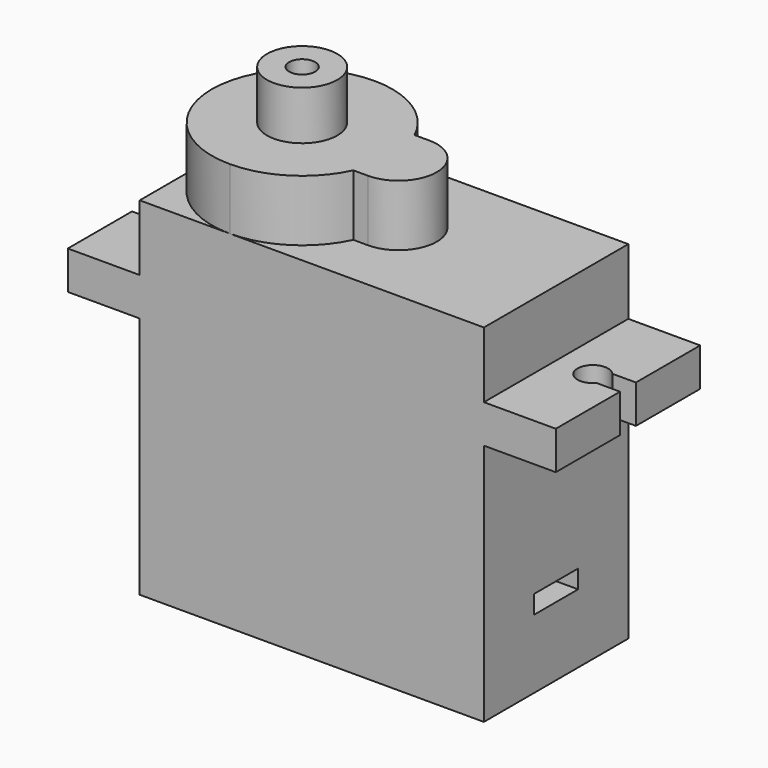
from build123d import *

# Parameters (mm, degrees)
F0_W      = 22.5
F0_H      = 11.8
F1_DEPTH  = 22.7
F2_W      = 4.7
F2_H      = 2.5
F3_DEPTH  = 11.8
F5_DEPTH  = 2.5
F7_DEPTH  = 2.5
F9_DEPTH  = 4
F10_R     = 2.3
F10_R_2   = 0.85
F11_DEPTH = 3.2
F13_DEPTH = 2


with BuildPart() as f1:
    # F0 (on Top) → F1 (new body)
    with BuildSketch(Plane.XY):
        with Locations((-42.3355284333, 9.1565789297)):
            Rectangle(F0_W, F0_H)
    extrude(amount=F1_DEPTH)

    # F2 (on face) → F3 (join)
    with BuildSketch(Plane.XZ.offset(-3.2565789297)):
        with Locations((-55.9355284333, 17.15)):
            Rectangle(F2_W, F2_H)
        with Locations((-28.7355284333, 17.15)):
            Rectangle(F2_W, F2_H)
    extrude(amount=-F3_DEPTH)

    # F4 (on face) → F5 (cut)
    with BuildSketch(Plane.XY.offset(18.4)):
        with BuildLine():
            Line((-58.2855284333, 8.5065789297), (-56.745462641, 8.5065789297))
            ThreePointArc((-56.745462641, 8.5065789297), (-54.9855284333, 9.1565789297), (-56.745462641, 9.8065789297))
            Line((-56.745462641, 9.8065789297), (-58.2855284333, 9.8065789297))
            Line((-58.2855284333, 9.8065789297), (-58.2855284333, 9.1565789297))
            Line((-58.2855284333, 9.1565789297), (-58.2855284333, 8.5065789297))
        make_face()
    extrude(amount=-F5_DEPTH, mode=Mode.SUBTRACT)

    # F6 (on face) → F7 (cut)
    with BuildSketch(Plane.XY.offset(18.4)):
        with BuildLine():
            Line((-26.3855284333, 9.8065789297), (-27.9255942256, 9.8065789297))
            ThreePointArc((-27.9255942256, 9.8065789297), (-29.6855284333, 9.1565789297), (-27.9255942256, 8.5065789297))
            Line((-27.9255942256, 8.5065789297), (-26.3855284333, 8.5065789297))
            Line((-26.3855284333, 8.5065789297), (-26.3855284333, 9.1565789297))
            Line((-26.3855284333, 9.1565789297), (-26.3855284333, 9.8065789297))
        make_face()
    extrude(amount=-F7_DEPTH, mode=Mode.SUBTRACT)

    # F8 (on face) → F9 (join)
    with BuildSketch(Plane.XY.offset(22.7)):
        with BuildLine():
            Line((-41.3855284333, 11.6565789297), (-42.341372747, 11.6565789297))
            ThreePointArc((-42.341372747, 11.6565789297), (-44.5185109103, 14.1345303165), (-47.6855284366, 15.0565789297))
            ThreePointArc((-47.6855284366, 15.0565789297), (-51.8574584435, 13.3285089376), (-53.5855284333, 9.1565789297))
            ThreePointArc((-53.5855284333, 9.1565789297), (-51.8574584423, 4.9846489207), (-47.6855284333, 3.2565789297))
            ThreePointArc((-47.6855284333, 3.2565789297), (-44.5185109089, 4.1786275439), (-42.341372747, 6.6565789297))
            Line((-42.341372747, 6.6565789297), (-41.3855284333, 6.6565789297))
            ThreePointArc((-41.3855284333, 6.6565789297), (-38.8855284333, 9.1565789297), (-41.3855284333, 11.6565789297))
        make_face()
    extrude(amount=F9_DEPTH)

    # F10 (on face) → F11 (join)
    with BuildSketch(Plane.XY.offset(26.7)):
        with Locations((-47.6855284333, 9.1565789297)):
            Circle(F10_R)
        with Locations((-47.6855284333, 9.1565789297)):
            Circle(F10_R_2, mode=Mode.SUBTRACT)
    extrude(amount=F11_DEPTH)

    # F12 (on face) → F13 (cut)
    with BuildSketch(Plane.YZ.offset(-31.0855284333)):
        Polygon((7.3565789297, 4.5), (9.1565789297, 4.5), (10.9565789297, 4.5), (10.9565789297, 5.7), (7.3565789297, 5.7), align=None)
    extrude(amount=-F13_DEPTH, mode=Mode.SUBTRACT)


solid = f1.part
